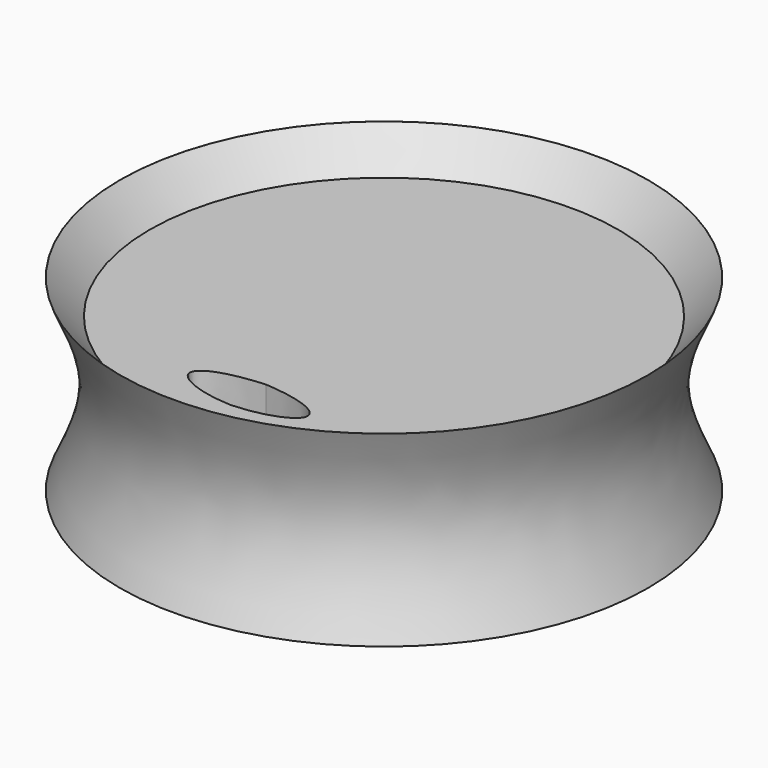
from build123d import *

# Parameters (mm, degrees)
F3_DEPTH = 63.5


with BuildPart() as f1:
    # F0 (on Front) → F1 (revolve)
    with BuildSketch(Plane.XZ):
        with BuildLine():
            Line((39.37, 39.3470600247), (39.36483711, 39.3470600247))
            Line((39.36483711, 39.3470600247), (34.9357277155, 34.2670600247))
            Line((34.9357277155, 34.2670600247), (0, 34.2670600247))
            Line((0, 34.2670600247), (0, 24.7010737658))
            Line((0, 24.7010737658), (31.75, 24.7010737658))
            Line((31.75, 24.7010737658), (31.75, 11.4070600247))
            Line((31.75, 11.4070600247), (39.37, 11.4070600247))
            add(Edge.make_bspline(
                [(39.37, 39.3470600247), (34.4467619655, 28.6070481429), (33.8160158511, 23.2457135293), (39.37, 11.4070600247)],
                knots=[0, 0, 0, 0, 27.94, 27.94, 27.94, 27.94], degree=3))
        make_face()
    revolve(axis=Axis((0, 0, 12.4958343804), (0, 0, -1)))

    # F2 (on Top) → F3 (cut, symmetric)
    with BuildSketch(Plane.XY):
        with BuildLine():
            add(Edge.make_bspline(
                [(0, -22.0161750913), (6.1625345287, -22.4403023631), (12.18108594, -25.5351662262), (4.3918588199, -28.4722913057), (0, -28.618644923)],
                knots=[0, 0, 0, 0, 0.5017927478, 1, 1, 1, 1], degree=3))
            add(Edge.make_bspline(
                [(0, -22.0161750913), (-6.1625345287, -22.4403023631), (-12.18108594, -25.5351662262), (-4.3918588199, -28.4722913057), (0, -28.618644923)],
                knots=[0, 0, 0, 0, 0.5017927478, 1, 1, 1, 1], degree=3))
        make_face()
    extrude(amount=F3_DEPTH, both=True, mode=Mode.SUBTRACT)


solid = f1.part
